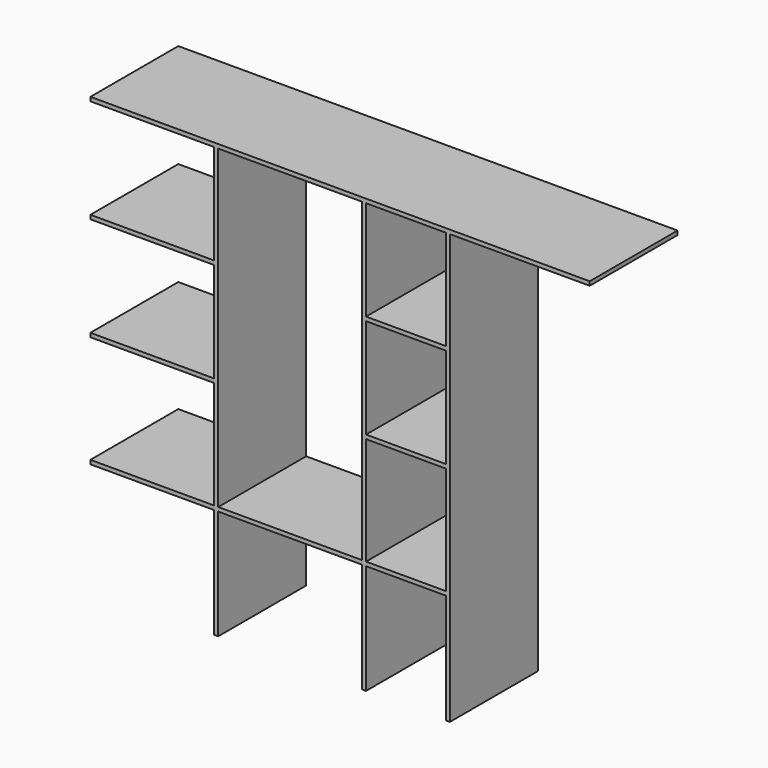
from build123d import *

# Parameters (mm, degrees)
F0_W     = 620
F0_H     = 20
F0_W_2   = 720
F0_W_3   = 400
F1_DEPTH = 550


with BuildPart() as f1:
    # F0 (on Front) → F1 (new body)
    with BuildSketch(Plane.XZ):
        Polygon((1585.188925, 520), (-914.811075, 520), (-914.811075, 500), (-294.811075, 500), (-274.811075, 500), (445.188925, 500), (465.188925, 500), (865.188925, 500), (885.188925, 500), (1585.188925, 500), align=None)
        Polygon((-274.811075, 500), (-294.811075, 500), (-294.811075, 0), (-294.811075, -20), (-294.811075, -520), (-294.811075, -540), (-294.811075, -1080), (-294.811075, -1100), (-294.811075, -1650), (-274.811075, -1650), (-274.811075, -1100), (-274.811075, -1080), align=None)
        Polygon((885.188925, -1650), (885.188925, 500), (865.188925, 500), (865.188925, 0), (865.188925, -20), (865.188925, -520), (865.188925, -540), (865.188925, -1080), (865.188925, -1100), (865.188925, -1650), align=None)
        with Locations((-604.811075, -10)):
            Rectangle(F0_W, F0_H)
        Polygon((465.188925, 500), (445.188925, 500), (445.188925, -1080), (445.188925, -1100), (445.188925, -1650), (465.188925, -1650), (465.188925, -1100), (465.188925, -1080), (465.188925, -540), (465.188925, -520), (465.188925, -20), (465.188925, 0), align=None)
        with Locations((85.188925, -1090)):
            Rectangle(F0_W_2, F0_H)
        with Locations((-604.811075, -530)):
            Rectangle(F0_W, F0_H)
        with Locations((665.188925, -1090)):
            Rectangle(F0_W_3, F0_H)
        with Locations((-604.811075, -1090)):
            Rectangle(F0_W, F0_H)
        with Locations((665.188925, -10)):
            Rectangle(F0_W_3, F0_H)
        with Locations((665.188925, -530)):
            Rectangle(F0_W_3, F0_H)
    extrude(amount=F1_DEPTH)


solid = f1.part
